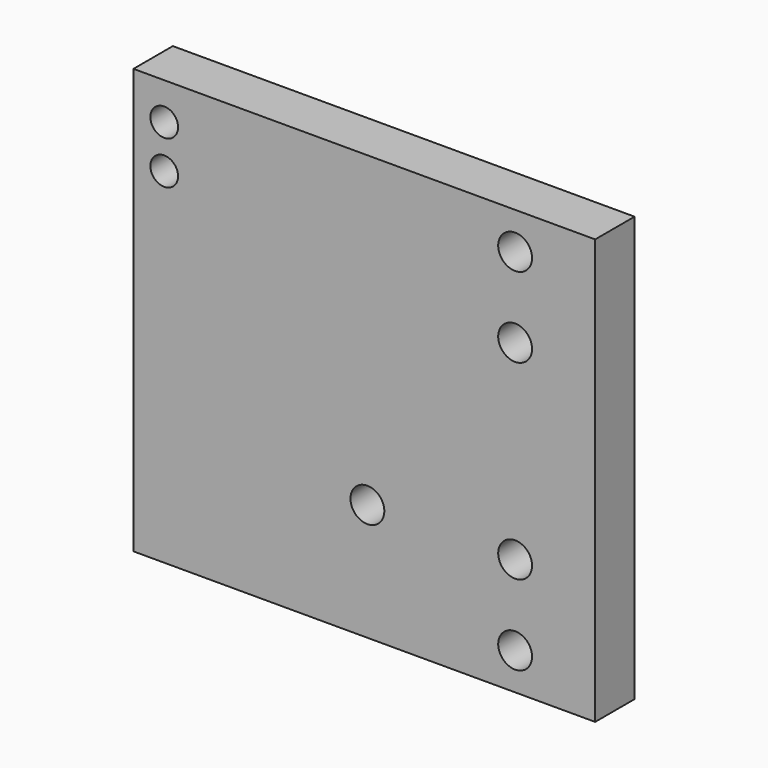
from build123d import *

# Parameters (mm, degrees)
F0_W     = 75
F0_H     = 69
F0_R     = 2.75
F0_R_2   = 2.25
F1_DEPTH = 8
F2_D     = 5.5


with BuildPart() as f1:
    # F0 (on Front) → F1 (new body)
    with BuildSketch(Plane.XZ):
        Rectangle(F0_W, F0_H)
        with Locations((24.5, -28.5)):
            Circle(F0_R, mode=Mode.SUBTRACT)
        with Locations((24.5, -15.5)):
            Circle(F0_R, mode=Mode.SUBTRACT)
        with Locations((-32.5, 21.5)):
            Circle(F0_R_2, mode=Mode.SUBTRACT)
        with Locations((-32.5, 28.5)):
            Circle(F0_R_2, mode=Mode.SUBTRACT)
        with Locations((24.5, 15.5)):
            Circle(F0_R, mode=Mode.SUBTRACT)
        with Locations((24.5, 28.5)):
            Circle(F0_R, mode=Mode.SUBTRACT)
    extrude(amount=F1_DEPTH)

    # F2 (through all)
    with Locations(Plane(origin=(0, 0, 0), x_dir=(1, 0, 0), z_dir=(0, 1, 0))):
        with Locations((0.5, 15.5)):
            Hole(F2_D / 2)


solid = f1.part
